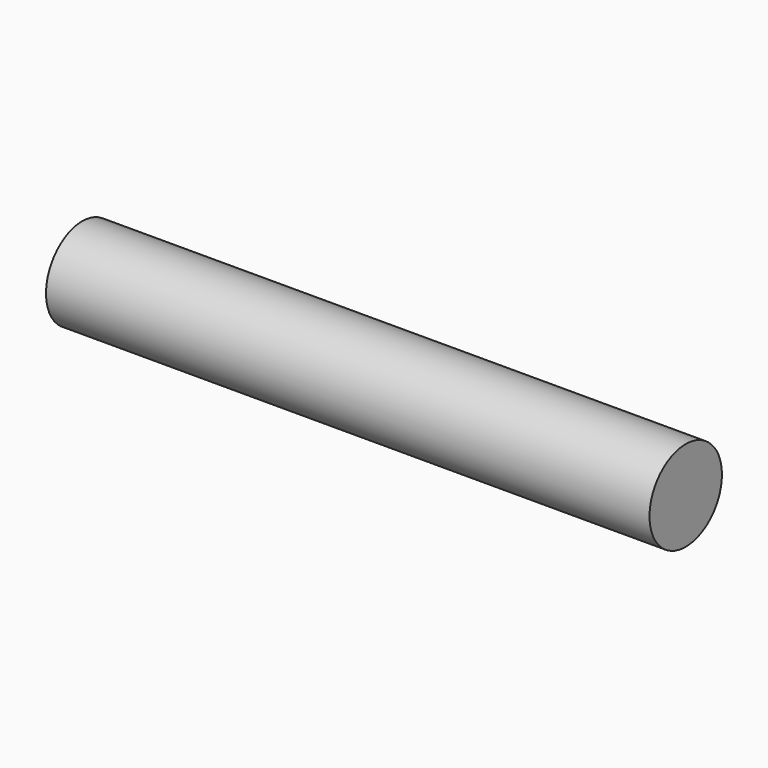
from build123d import *

# Parameters (mm, degrees)
F0_W     = 94.2309722304
F0_H     = 10.60660172
F1_DEPTH = 10.60660172
F3_DEPTH = 100


with BuildPart() as f1:
    # F0 (on Top) → F1 (new body)
    with BuildSketch(Plane.XY):
        with Locations((47.1154861152, 5.30330086)):
            Rectangle(F0_W, F0_H)
    extrude(amount=F1_DEPTH)

    # F2 (on face) → F3 (join)
    with BuildSketch(Plane.YZ.offset(94.2309722304)):
        with BuildLine():
            ThreePointArc((10.60660172, 10.60660172), (0, 10.60660172), (0, 0))
            Line((0, 0), (10.60660172, 10.60660172))
        make_face()
        with BuildLine():
            Line((10.60660172, 10.60660172), (0, 0))
            ThreePointArc((0, 0), (8.1734266033, -1.6257956353), (12.8033008616, 5.30330086))
            ThreePointArc((12.8033008616, 5.30330086), (12.2323973553, 8.1734266033), (10.60660172, 10.60660172))
        make_face()
    extrude(amount=-F3_DEPTH)


solid = f1.part
